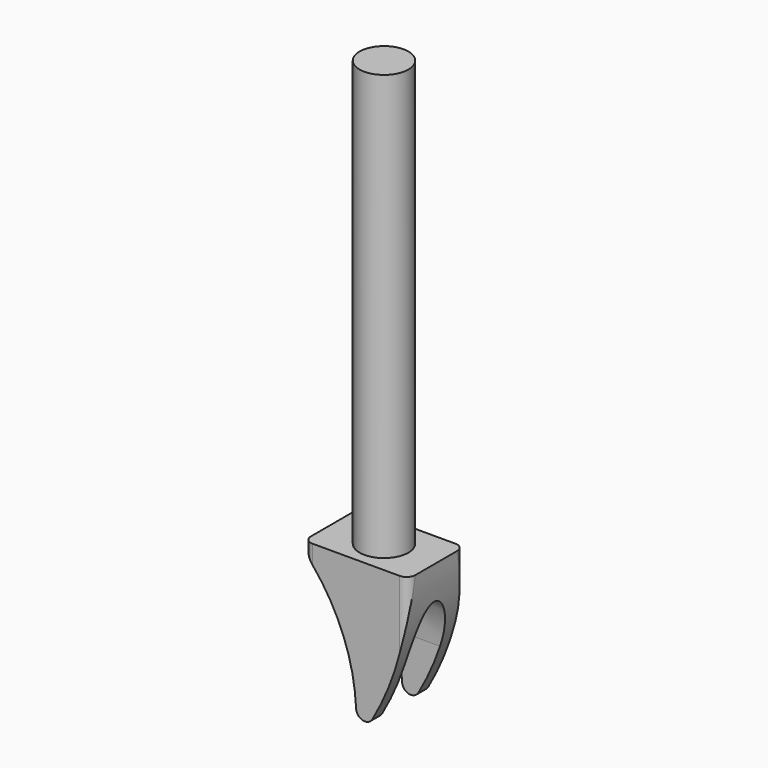
from build123d import *

# Parameters (mm, degrees)
F0_R     = 14
F1_DEPTH = 244
F2_W     = 60
F2_H     = 40
F3_DEPTH = 80
F4_R     = 5
F6_DEPTH = 40
F8_DEPTH = 35


with BuildPart() as f1:
    # F0 (on Top) → F1 (new body)
    with BuildSketch(Plane.XY):
        Circle(F0_R)
    extrude(amount=F1_DEPTH)

    # F2 (on Top) → F3 (join)
    with BuildSketch(Plane.XY):
        Rectangle(F2_W, F2_H)
    extrude(amount=-F3_DEPTH)

    # F4
    f4_edges = [f1.edges().sort_by_distance(p)[0] for p in [
        (30, -20, -40),
        (-30, -20, -40),
        (30, 20, -40),
        (-30, 20, -40),
    ]]
    fillet(f4_edges, radius=F4_R)

    # F5 (on Front) → F6 (cut, symmetric)
    with BuildSketch(Plane.XZ):
        with BuildLine():
            Line((-30, 0), (-30, -90))
            Line((-30, -90), (30, -90))
            Line((30, -90), (30, 0))
            ThreePointArc((30, 0), (24.7453124754, -40.0987499935), (9.3360995851, -77.489626556))
            ThreePointArc((9.3360995851, -77.489626556), (3.8189128101, -79.8585011114), (0.0048970649, -75.2212389381))
            ThreePointArc((0.0048970649, -75.2212389381), (-7.6784593534, -39.7286436891), (-26.6918835796, -8.7892192835))
            ThreePointArc((-26.6918835796, -8.7892192835), (-29.1455882011, -4.6955832935), (-30, 0))
        make_face()
    extrude(amount=F6_DEPTH, both=True, mode=Mode.SUBTRACT)

    # F7 (on Right) → F8 (cut, symmetric)
    with BuildSketch(Plane.YZ):
        with BuildLine():
            Line((13, -80), (13, -50))
            add(Edge.make_bspline(
                [(13, -50), (13, -20), (0, -20), (-13, -20), (-13, -50)],
                knots=[1.5707963268, 1.5707963268, 1.5707963268, 3.1415926536, 3.1415926536, 4.7123889804, 4.7123889804, 4.7123889804], degree=2, weights=[1, 0.7071067812, 1, 0.7071067812, 1]))
            Line((-13, -50), (-13, -80))
            Line((-13, -80), (13, -80))
        make_face()
    extrude(amount=F8_DEPTH, both=True, mode=Mode.SUBTRACT)


solid = f1.part
